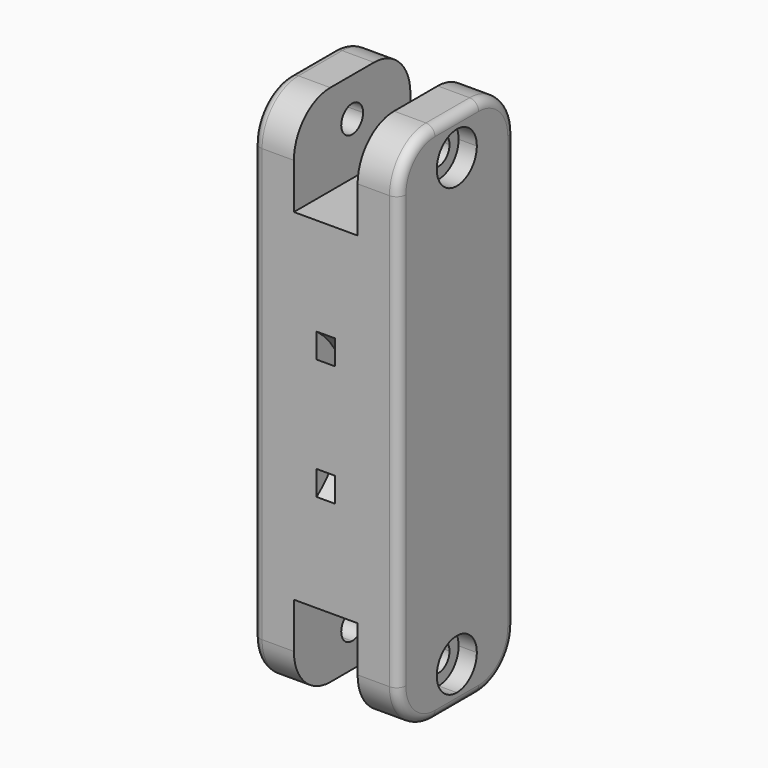
from build123d import *

# Parameters (mm, degrees)
F0_W      = 6.5
F0_H      = 7.5
F1_DEPTH  = 8
F3_DEPTH  = 2
F4_DEPTH  = 25
F6_DEPTH  = 2
F7_R      = 5
F8_R      = 5
F9_R      = 1
F10_DEPTH = 14.5
F11_R     = 1.25
F12_DEPTH = 32.501
F13_R     = 2.5
F14_R     = 1.25
F15_DEPTH = 32.501
F17_DEPTH = 1


with BuildPart() as f1:
    # F0 (on Front) → F1 (new body, symmetric)
    with BuildSketch(Plane.XZ):
        Polygon((3.5, -28.75), (8, -28.75), (8, 28.75), (3.5, 28.75), (3.5, 18.75), (-3.5, 18.75), (-3.5, 28.75), (-8, 28.75), (-8, -28.75), (-3.5, -28.75), (-3.5, -18.75), (3.5, -18.75), align=None)
        Rectangle(F0_W, F0_H, mode=Mode.SUBTRACT)
    extrude(amount=F1_DEPTH, both=True)

    # F2 (on face) → F3 (cut)
    with BuildSketch(Plane.YZ.offset(8)):
        with BuildLine():
            ThreePointArc((2.75, 24.5), (1.9445436483, 26.4445436483), (0, 27.25))
            ThreePointArc((0, 27.25), (-1.9445436483, 22.5554563517), (2.75, 24.5))
        make_face()
        with BuildLine():
            ThreePointArc((1.5, 24.5), (-1.0606601718, 23.4393398282), (0, 26))
            ThreePointArc((0, 26), (1.0606601718, 25.5606601718), (1.5, 24.5))
        make_face(mode=Mode.SUBTRACT)
        with BuildLine():
            ThreePointArc((2.75, -24.5), (-1.9445436483, -22.5554563517), (0, -27.25))
            ThreePointArc((0, -27.25), (1.9445436483, -26.4445436483), (2.75, -24.5))
        make_face()
        with BuildLine():
            ThreePointArc((1.5, -24.5), (1.0606601718, -25.5606601718), (0, -26))
            ThreePointArc((0, -26), (-1.0606601718, -23.4393398282), (1.5, -24.5))
        make_face(mode=Mode.SUBTRACT)
    extrude(amount=-F3_DEPTH, mode=Mode.SUBTRACT)

    # F4 (cut): faces of the model
    f4_faces = [f1.faces().sort_by_distance(p)[0] for p in [
        (8, 0, 24.5),
        (8, 0, -24.5),
    ]]
    extrude(f4_faces, amount=-F4_DEPTH, mode=Mode.SUBTRACT)

    # F5 (on face) → F6 (cut)
    with BuildSketch(Plane(origin=(-8, 0, 0), x_dir=(0, -1, 0), z_dir=(-1, 0, 0))):
        Polygon((1.4860554785, 27.1748780249), (0, 27.1503606325), (-1.5734845824, 27.1244008083), (-3.0595400608, 24.4495227834), (-1.4860554785, 21.8251219751), (1.5734845824, 21.8755991917), (3.0595400608, 24.5504772166), align=None)
        with BuildLine():
            ThreePointArc((1.5, 24.5), (-1.0606601718, 23.4393398282), (0, 26))
            ThreePointArc((0, 26), (1.0606601718, 25.5606601718), (1.5, 24.5))
        make_face(mode=Mode.SUBTRACT)
        Polygon((-1.4958462814, -27.1694151487), (0, -27.1502182166), (1.5638581913, -27.1301484541), (3.0597044727, -24.4607333055), (1.4958462814, -21.8305848513), (-1.5638581913, -21.8698515459), (-3.0597044727, -24.5392666945), align=None)
        with BuildLine():
            ThreePointArc((1.5, -24.5), (1.0606601718, -25.5606601718), (0, -26))
            ThreePointArc((0, -26), (-1.0606601718, -23.4393398282), (1.5, -24.5))
        make_face(mode=Mode.SUBTRACT)
    extrude(amount=-F6_DEPTH, mode=Mode.SUBTRACT)

    # F7
    f7_edges = [f1.edges().sort_by_distance(p)[0] for p in [
        (5.75, -8, 28.75),
        (5.75, 8, 28.75),
        (-5.75, 8, 28.75),
        (-5.75, -8, 28.75),
    ]]
    fillet(f7_edges, radius=F7_R)

    # F8
    f8_edges = [f1.edges().sort_by_distance(p)[0] for p in [
        (5.75, 8, -28.75),
        (-5.75, 8, -28.75),
        (5.75, -8, -28.75),
        (-5.75, -8, -28.75),
    ]]
    fillet(f8_edges, radius=F8_R)

    # F9
    f9_edges = [f1.edges().sort_by_distance(p)[0] for p in [
        (-8, -8, 0),
        (8, -8, 0),
        (8, 8, 0),
        (-8, 8, 0),
    ]]
    fillet(f9_edges, radius=F9_R)

    # F0 (on Front) → F10 (join, symmetric)
    with BuildSketch(Plane.XZ):
        Rectangle(F0_W, F0_H)
    extrude(amount=F10_DEPTH, both=True)

    # F11 (on face) → F12 (cut, through all)
    with BuildSketch(Plane.XY.offset(3.75)):
        with Locations((0, 11.25)):
            Circle(F11_R)
        with Locations((0, -11.25)):
            Circle(F11_R)
    extrude(amount=-F12_DEPTH, mode=Mode.SUBTRACT)

    # F13
    f13_edges = [f1.edges().sort_by_distance(p)[0] for p in [
        (-3.25, 14.5, 0),
        (3.25, 14.5, 0),
        (-3.25, -14.5, 0),
        (3.25, -14.5, 0),
    ]]
    fillet(f13_edges, radius=F13_R)

    # F14 (on face) → F15 (cut, through all)
    with BuildSketch(Plane.XY.offset(3.75)):
        with BuildLine():
            ThreePointArc((-3.25, -12), (-2.517766953, -13.767766953), (-0.75, -14.5))
            Line((-0.75, -14.5), (0.75, -14.5))
            ThreePointArc((0.75, -14.5), (2.517766953, -13.767766953), (3.25, -12))
            Line((3.25, -12), (3.25, -8))
            Line((3.25, -8), (-3.25, -8))
            Line((-3.25, -8), (-3.25, -12))
        make_face()
        with Locations((0, -11.25)):
            Circle(F14_R, mode=Mode.SUBTRACT)
    extrude(amount=-F15_DEPTH, mode=Mode.SUBTRACT)

    # F16 (on Right) → F17 (cut, symmetric)
    with BuildSketch(Plane.YZ):
        with BuildLine():
            ThreePointArc((-8, -8), (-4, 0), (-8, 8))
            Line((-8, 8), (-8, 5.2915026221))
            ThreePointArc((-8, 5.2915026221), (-6, 0), (-8, -5.2915026221))
            Line((-8, -5.2915026221), (-8, -8))
        make_face()
    extrude(amount=F17_DEPTH, both=True, mode=Mode.SUBTRACT)


solid = f1.part
